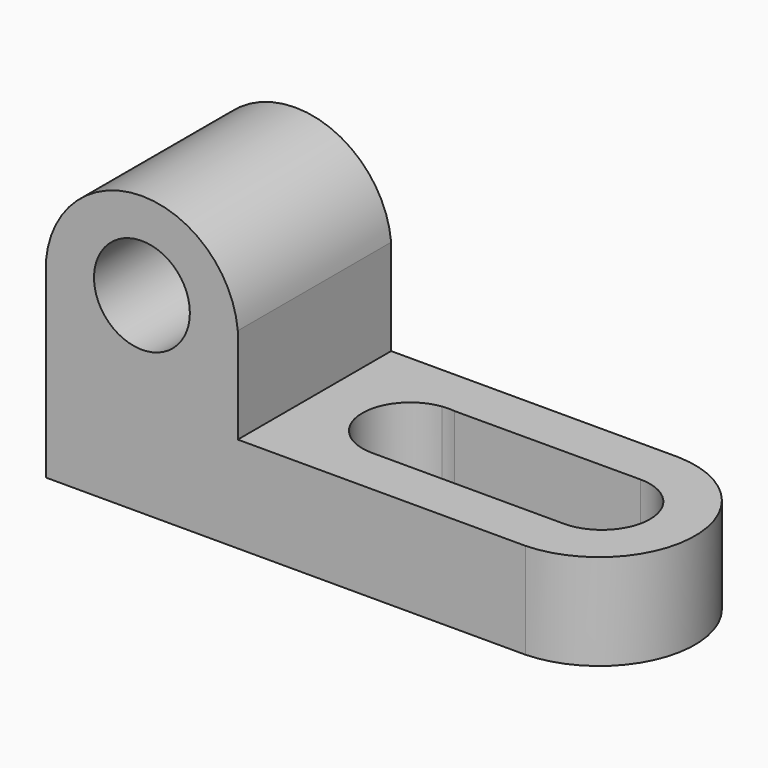
from build123d import *

# Parameters (mm, degrees)
F1_DEPTH = 25.4
F2_R     = 6.35
F3_DEPTH = 25.4
F5_DEPTH = 25.4
F7_DEPTH = 25.4


with BuildPart() as f1:
    # F0 (on Front) → F1 (new body)
    with BuildSketch(Plane.XZ):
        Polygon((25.4, 38.1), (0, 38.1), (0, 0), (76.2, 0), (76.2, 12.7), (25.4, 12.7), align=None)
    extrude(amount=F1_DEPTH)

    # F2 (on face) → F3 (cut)
    with BuildSketch(Plane.XZ.offset(25.4)):
        with Locations((12.7, 25.4)):
            Circle(F2_R)
        with BuildLine():
            ThreePointArc((0, 25.4), (12.7, 36.9881682831), (25.4, 25.4))
            Line((25.4, 25.4), (25.4, 38.1))
            Line((25.4, 38.1), (0, 38.1))
            Line((0, 38.1), (0, 25.4))
        make_face()
    extrude(amount=-F3_DEPTH, mode=Mode.SUBTRACT)

    # F4 (on face) → F5 (cut)
    with BuildSketch(Plane.XY.offset(12.7)):
        with BuildLine():
            ThreePointArc((38.8945956535, -6.3999112905), (38.0871158775, -6.3500130709), (37.2798452362, -6.4031876188))
            Line((37.2798452362, -6.4031876188), (38.8945956535, -6.3999112905))
        make_face()
        with BuildLine():
            ThreePointArc((63.4871158775, -6.3500130709), (57.1500032677, -12.7064420645), (63.5, -19.05))
            Line((63.5, -19.05), (63.4871158775, -6.3500130709))
        make_face()
        with BuildLine():
            Line((63.4871158775, -6.3500130709), (63.5, -19.05))
            ThreePointArc((63.5, -19.05), (67.9901280605, -17.1901280605), (69.85, -12.7))
            ThreePointArc((69.85, -12.7), (67.9855705224, -8.2053190226), (63.4871158775, -6.3500130709))
        make_face()
        with BuildLine():
            ThreePointArc((44.45, -12.7), (42.5901280605, -17.1901280605), (38.1, -19.05))
            Line((38.1, -19.05), (63.5, -19.05))
            ThreePointArc((63.5, -19.05), (57.1500032677, -12.7064420645), (63.4871158775, -6.3500130709))
            Line((63.4871158775, -6.3500130709), (38.8945956535, -6.3999112905))
            ThreePointArc((38.8945956535, -6.3999112905), (42.8627818762, -8.5001894328), (44.45, -12.7))
        make_face()
        with BuildLine():
            Line((38.8945956535, -6.3999112905), (37.2798452362, -6.4031876188))
            Line((37.2798452362, -6.4031876188), (38.1, -19.05))
            ThreePointArc((38.1, -19.05), (42.5901280605, -17.1901280605), (44.45, -12.7))
            ThreePointArc((44.45, -12.7), (42.8627818762, -8.5001894328), (38.8945956535, -6.3999112905))
        make_face()
        with BuildLine():
            Line((38.1, -19.05), (37.2798452362, -6.4031876188))
            ThreePointArc((37.2798452362, -6.4031876188), (31.7633108558, -13.1109387909), (38.1, -19.05))
        make_face()
    extrude(amount=-F5_DEPTH, mode=Mode.SUBTRACT)

    # F6 (on face) → F7 (cut)
    with BuildSketch(Plane.XY.offset(12.7)):
        with BuildLine():
            ThreePointArc((63.5, 0), (75.8211182334, -12.7), (63.5, -25.4))
            Line((63.5, -25.4), (76.2, -25.4))
            Line((76.2, -25.4), (76.2, 0))
            Line((76.2, 0), (63.5, 0))
        make_face()
    extrude(amount=-F7_DEPTH, mode=Mode.SUBTRACT)


solid = f1.part
